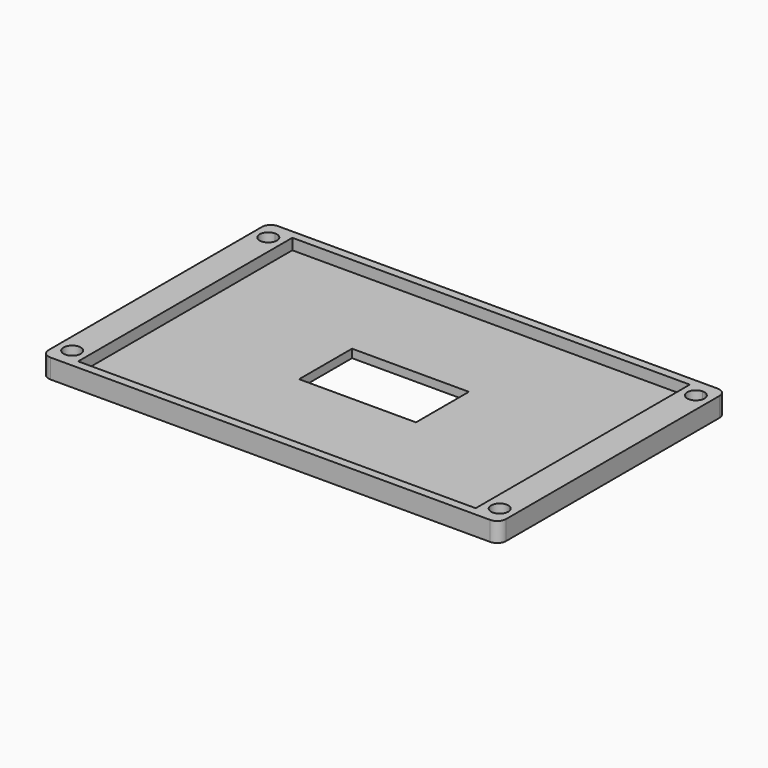
from build123d import *

# Parameters (mm, degrees)
F0_W      = 103.75
F0_H      = 64.5
F1_DEPTH  = 2.2
F2_T      = -1.9
F3_W      = 26.5
F3_H      = 15
F4_DEPTH  = 12.7
F5_R      = 2
F6_R      = 2
F7_W      = 4.9
F7_H      = 60.7
F8_DEPTH  = 2.5
F9_W      = 4.9
F9_H      = 60.7
F10_DEPTH = 2.5
F12_DEPTH = 4.4


with BuildPart() as f1:
    # F0 (on Top) → F1 (new body, symmetric)
    with BuildSketch(Plane.XY):
        Rectangle(F0_W, F0_H)
    extrude(amount=F1_DEPTH, both=True)

    # F2
    f2_openings = [f1.faces().sort_by_distance(p)[0] for p in [
        (0, 0, 2.2),
    ]]
    offset(amount=F2_T, openings=f2_openings)

    # F3 (on Top) → F4 (cut, symmetric)
    with BuildSketch(Plane.XY):
        Rectangle(F3_W, F3_H)
    extrude(amount=F4_DEPTH, both=True, mode=Mode.SUBTRACT)

    # F5
    f5_edges = [f1.edges().sort_by_distance(p)[0] for p in [
        (-51.875, 32.25, 0),
    ]]
    fillet(f5_edges, radius=F5_R)

    # F6
    f6_edges = [f1.edges().sort_by_distance(p)[0] for p in [
        (-51.875, -32.25, 0),
        (51.875, -32.25, 0),
        (51.875, 32.25, 0),
    ]]
    fillet(f6_edges, radius=F6_R)

    # F7 (on face) → F8 (join)
    with BuildSketch(Plane.XY.offset(-0.3)):
        with Locations((-47.525, 0)):
            Rectangle(F7_W, F7_H)
    extrude(amount=F8_DEPTH)

    # F9 (on face) → F10 (join)
    with BuildSketch(Plane.XY.offset(-0.3)):
        with Locations((47.525, 0)):
            Rectangle(F9_W, F9_H)
    extrude(amount=F10_DEPTH)

    # F11 (on face) → F12 (cut)
    with BuildSketch(Plane.XY.offset(2.2)):
        with BuildLine():
            ThreePointArc((-48.475, 29.75), (-49.853858, 26.421142), (-46.525, 27.8))
            ThreePointArc((-46.525, 27.8), (-47.096142, 29.178858), (-48.475, 29.75))
        make_face()
        with BuildLine():
            ThreePointArc((48.474999, 29.75), (47.096141, 26.421142), (50.424999, 27.8))
            ThreePointArc((50.424999, 27.8), (49.853858, 29.178858), (48.474999, 29.75))
        make_face()
        with BuildLine():
            ThreePointArc((-48.472498, -29.75), (-47.09364, -29.178858), (-46.522498, -27.8))
            ThreePointArc((-46.522498, -27.8), (-49.851357, -26.421142), (-48.472498, -29.75))
        make_face()
        with BuildLine():
            ThreePointArc((48.477501, -29.75), (49.856359, -29.178858), (50.427501, -27.8))
            ThreePointArc((50.427501, -27.8), (47.098643, -26.421142), (48.477501, -29.75))
        make_face()
    extrude(amount=-F12_DEPTH, mode=Mode.SUBTRACT)


solid = f1.part
